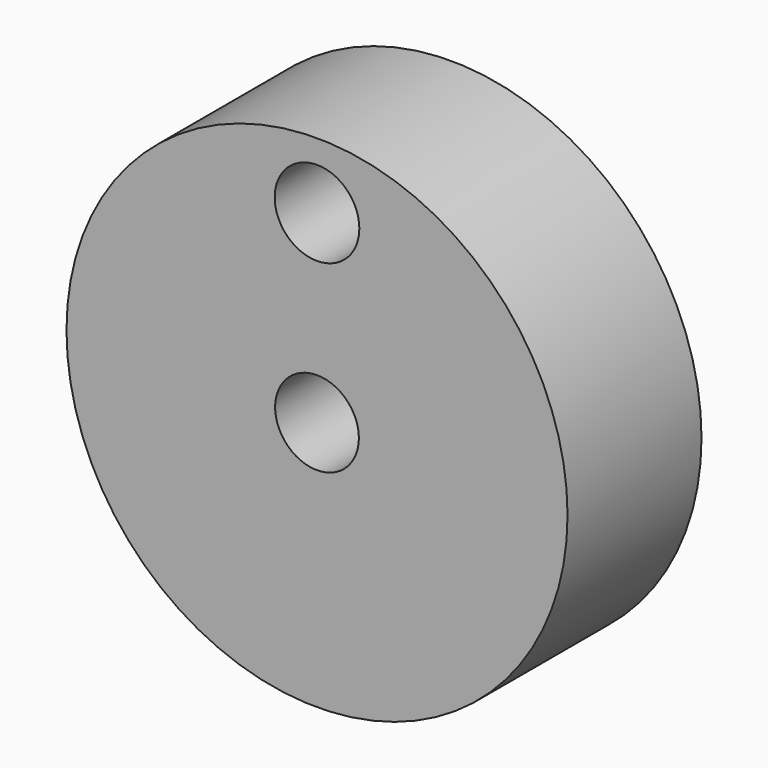
from build123d import *

# Parameters (mm, degrees)
F0_R     = 9.4996
F0_R_2   = 1.5875
F0_R_3   = 1.604717
F1_DEPTH = 6.35


with BuildPart() as f1:
    # F0 (on Front) → F1 (new body)
    with BuildSketch(Plane.XZ):
        Circle(F0_R)
        Circle(F0_R_2, mode=Mode.SUBTRACT)
        with Locations((0, 7.002737)):
            Circle(F0_R_3, mode=Mode.SUBTRACT)
    extrude(amount=F1_DEPTH)


solid = f1.part
